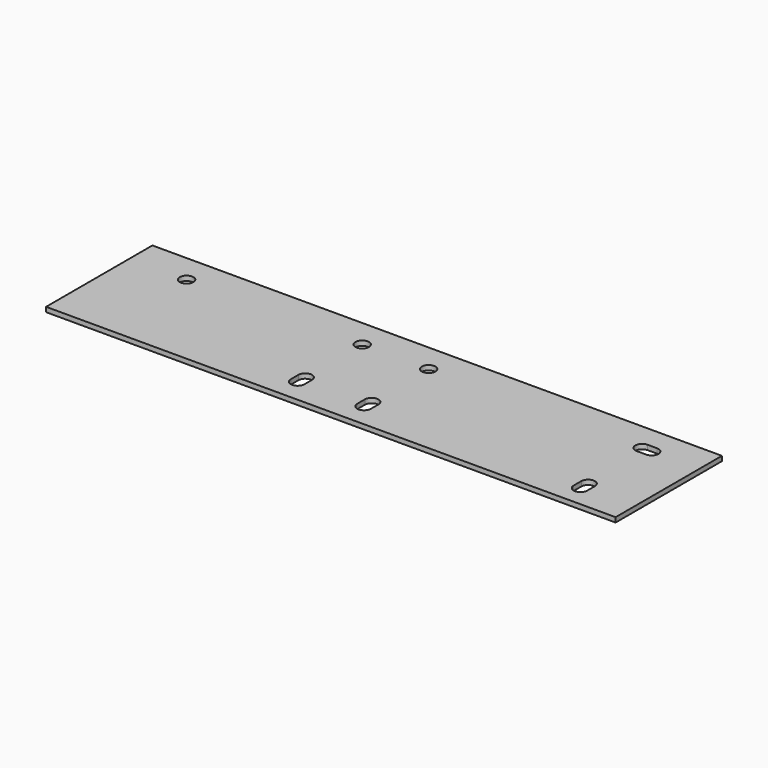
from build123d import *

# Parameters (mm, degrees)
F0_W     = 1524
F0_H     = 355.6
F0_R     = 18.25625
F1_DEPTH = 12.7


with BuildPart() as f1:
    # F0 (on Top) → F1 (new body)
    with BuildSketch(Plane.XY):
        with Locations((762, 177.8)):
            Rectangle(F0_W, F0_H)
        with BuildLine():
            Line((604.04375, 63.5), (604.04375, 88.9))
            ThreePointArc((604.04375, 88.9), (622.3, 107.15625), (640.55625, 88.9))
            Line((640.55625, 88.9), (640.55625, 63.5))
            ThreePointArc((640.55625, 63.5), (622.3, 45.24375), (604.04375, 63.5))
        make_face(mode=Mode.SUBTRACT)
        with BuildLine():
            Line((781.84375, 63.5), (781.84375, 88.9))
            ThreePointArc((781.84375, 88.9), (800.1, 107.15625), (818.35625, 88.9))
            Line((818.35625, 88.9), (818.35625, 63.5))
            ThreePointArc((818.35625, 63.5), (800.1, 45.24375), (781.84375, 63.5))
        make_face(mode=Mode.SUBTRACT)
        with BuildLine():
            Line((1366.04375, 57.15), (1366.04375, 82.55))
            ThreePointArc((1366.04375, 82.55), (1384.3, 100.80625), (1402.55625, 82.55))
            Line((1402.55625, 82.55), (1402.55625, 57.15))
            ThreePointArc((1402.55625, 57.15), (1384.3, 38.89375), (1366.04375, 57.15))
        make_face(mode=Mode.SUBTRACT)
        with Locations((152.4, 279.4)):
            Circle(F0_R, mode=Mode.SUBTRACT)
        with Locations((622.3, 279.4)):
            Circle(F0_R, mode=Mode.SUBTRACT)
        with Locations((800.1, 279.4)):
            Circle(F0_R, mode=Mode.SUBTRACT)
        with BuildLine():
            Line((1371.6, 297.65625), (1397, 297.65625))
            ThreePointArc((1397, 297.65625), (1415.25625, 279.4), (1397, 261.14375))
            Line((1397, 261.14375), (1371.6, 261.14375))
            ThreePointArc((1371.6, 261.14375), (1353.34375, 279.4), (1371.6, 297.65625))
        make_face(mode=Mode.SUBTRACT)
    extrude(amount=F1_DEPTH)


solid = f1.part
